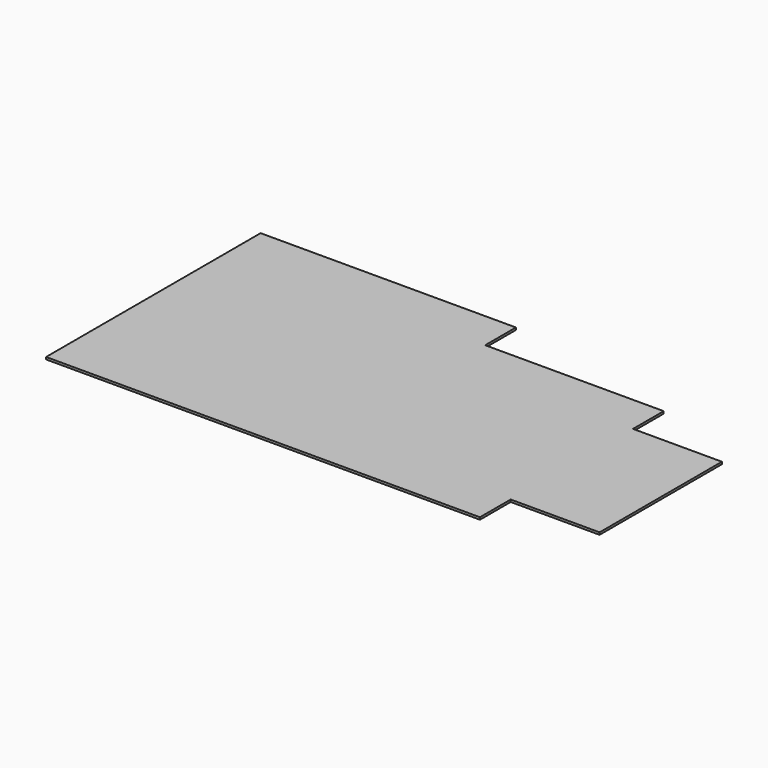
from build123d import *

# Parameters (mm, degrees)
F1_DEPTH = 25


with BuildPart() as f1:
    # F0 (on Top) → F1 (new body)
    with BuildSketch(Plane.XY):
        Polygon((0, 3016), (0, 0), (4880, 0), (4880, 432), (5880, 432), (5880, 2152), (4880, 2152), (4880, 2584), (2872, 2584), (2872, 3016), align=None)
    extrude(amount=-F1_DEPTH)


solid = f1.part
